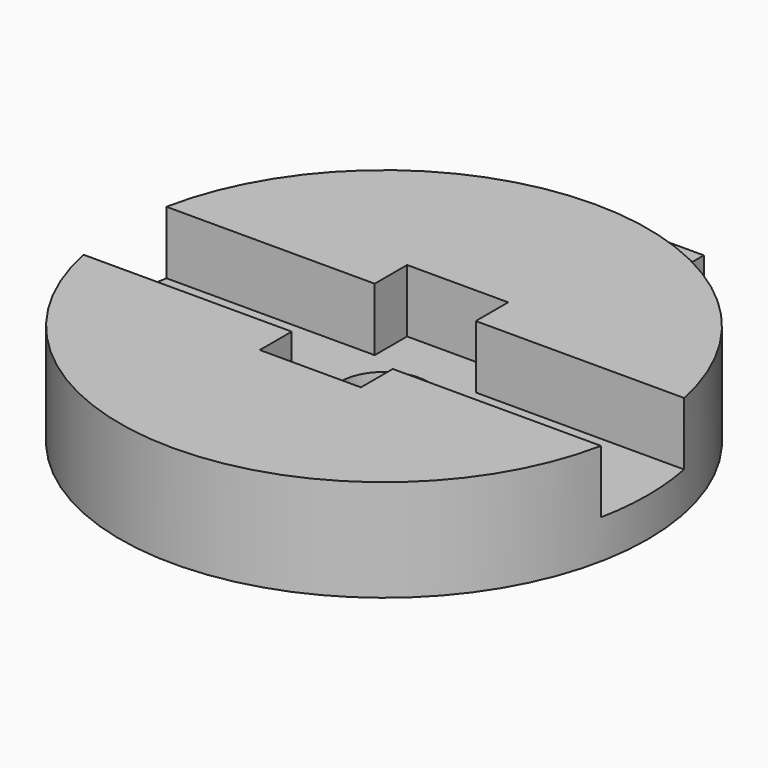
from build123d import *

# Parameters (mm, degrees)
F0_R      = 19.71
F1_DEPTH  = 7.6
F2_W      = 40
F2_H      = 7.75
F3_DEPTH  = 4.7
F4_W      = 7.55
F4_H      = 13.75
F5_DEPTH  = 4.7
F6_W      = 8.35
F6_H      = 5.3
F7_DEPTH  = 3.6
F8_W      = 2.175
F8_H      = 1.2
F9_DEPTH  = 3.601
F10_R     = 3.25
F11_DEPTH = 3


with BuildPart() as f1:
    # F0 (on Top) → F1 (new body)
    with BuildSketch(Plane.XY):
        Circle(F0_R)
    extrude(amount=F1_DEPTH)

    # F2 (on face) → F3 (cut)
    with BuildSketch(Plane.XY.offset(7.6)):
        with Locations((0, -0.025)):
            Rectangle(F2_W, F2_H)
    extrude(amount=-F3_DEPTH, mode=Mode.SUBTRACT)

    # F4 (on face) → F5 (cut)
    with BuildSketch(Plane.XY.offset(7.6)):
        Rectangle(F4_W, F4_H)
    extrude(amount=-F5_DEPTH, mode=Mode.SUBTRACT)

    # F6 (on face) → F7 (join)
    with BuildSketch(Plane(origin=(0, 0, 0), x_dir=(1, 0, 0), z_dir=(0, 0, -1))):
        with Locations((0, -21.987913)):
            Rectangle(F6_W, F6_H)
    extrude(amount=-F7_DEPTH)

    # F8 (on face) → F9 (cut, through all)
    with BuildSketch(Plane.XY.offset(3.6)):
        Polygon((2, 22.937913), (-2, 22.937913), (-2, 19.837913), (2, 19.837913), (2, 20.219285), (2, 21.419285), align=None)
        with Locations((3.0875, 20.819285)):
            Rectangle(F8_W, F8_H)
    extrude(amount=-F9_DEPTH, mode=Mode.SUBTRACT)

    # F10 (on face) → F11 (cut)
    with BuildSketch(Plane(origin=(0, 0, 0), x_dir=(1, 0, 0), z_dir=(0, 0, -1))):
        Circle(F10_R)
    extrude(amount=-F11_DEPTH, mode=Mode.SUBTRACT)


solid = f1.part
